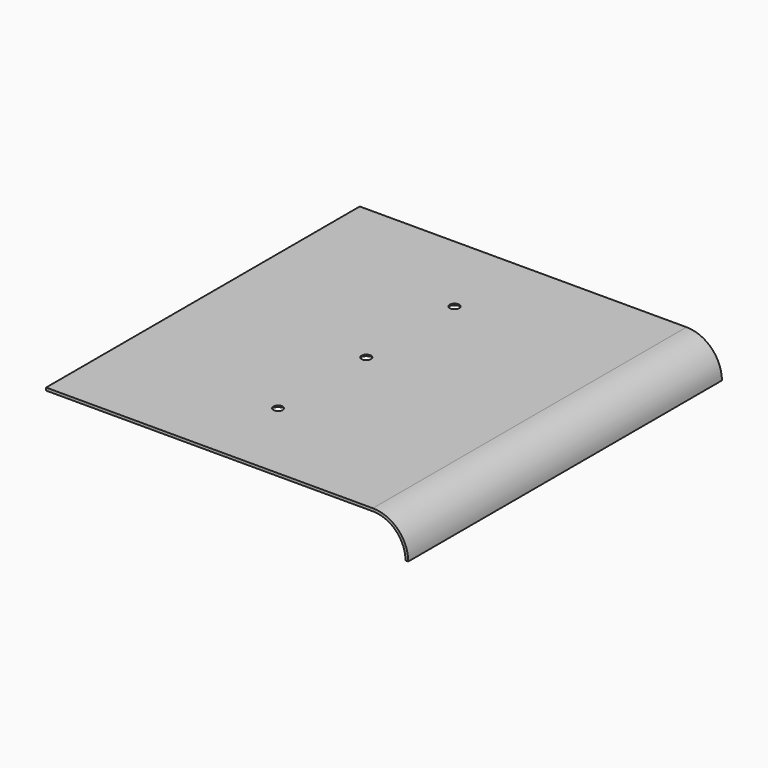
from build123d import *

# Parameters (mm, degrees)
F1_DEPTH       = 76.2
F1_DEPTH_BACK  = 76.2
F3_D           = 3.683
F3_CSINK_D     = 5.588
F3_CSINK_ANGLE = 100


with BuildPart() as f1:
    # F0 (on Front) → F1 (new body, two sides)
    with BuildSketch(Plane.XZ) as f1_sk:
        with BuildLine():
            Line((0, 1.0668), (0, 0))
            Line((0, 0), (127, 0))
            ThreePointArc((127, 0), (135.980256, -3.719744), (139.7, -12.7))
            Line((139.7, -12.7), (140.7668, -12.7))
            ThreePointArc((140.7668, -12.7), (136.734598, -2.965402), (127, 1.0668))
            Line((127, 1.0668), (0, 1.0668))
        make_face()
    extrude(amount=F1_DEPTH)
    extrude(f1_sk.sketch, amount=-F1_DEPTH_BACK)

    # F3 (through all)
    with Locations(Plane(origin=(0, 0, 0), x_dir=(1, 0, 0), z_dir=(0, 0, -1))):
        with Locations((63.5, 42.8625), (63.5, 0), (63.5, -42.8625)):
            CounterSinkHole(F3_D / 2, F3_CSINK_D / 2, counter_sink_angle=F3_CSINK_ANGLE)


solid = f1.part
